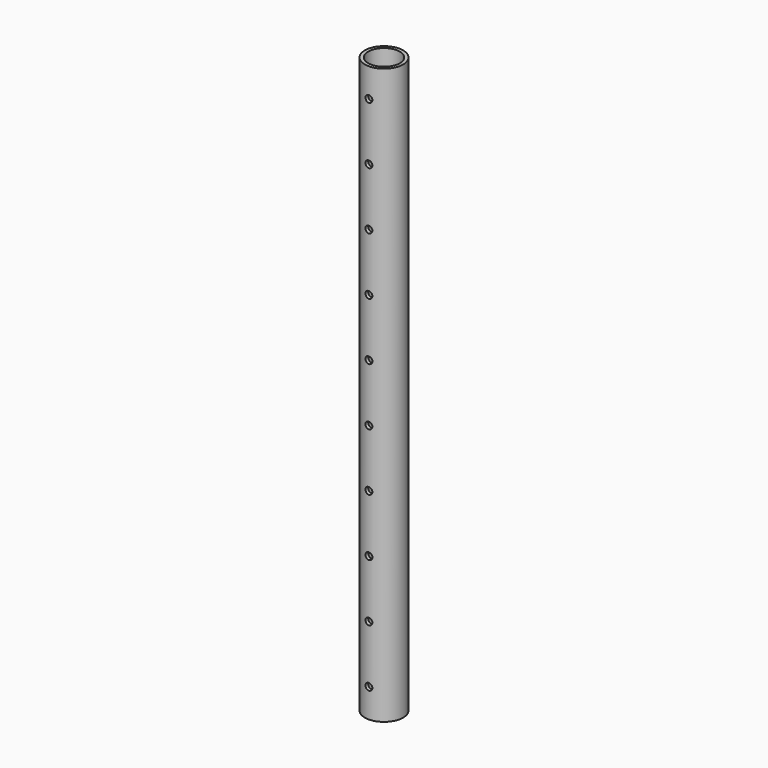
from build123d import *

# Parameters (mm, degrees)
SKETCH_R    = 16.65
SKETCH_R_2  = 13.75
PAD_DEPTH   = 250
SKETCH001_R = 3
HOLE_DEPTH  = 1021.076766


with BuildPart() as part:
    # Sketch → Pad (new body, symmetric)
    with BuildSketch(Plane.XY):
        Circle(SKETCH_R)
        Circle(SKETCH_R_2, mode=Mode.SUBTRACT)
    extrude(amount=PAD_DEPTH, both=True)

    # Sketch001 → Hole (cut, through all)
    with BuildSketch(Plane.XZ):
        with Locations((0, -225)):
            Circle(SKETCH001_R)
        with Locations((0, -175)):
            Circle(SKETCH001_R)
        with Locations((0, -125)):
            Circle(SKETCH001_R)
        with Locations((0, -75)):
            Circle(SKETCH001_R)
        with Locations((0, -25)):
            Circle(SKETCH001_R)
        with Locations((0, 25)):
            Circle(SKETCH001_R)
        with Locations((0, 75)):
            Circle(SKETCH001_R)
        with Locations((0, 125)):
            Circle(SKETCH001_R)
        with Locations((0, 175)):
            Circle(SKETCH001_R)
        with Locations((0, 225)):
            Circle(SKETCH001_R)
    hole = extrude(amount=-HOLE_DEPTH, mode=Mode.SUBTRACT)

    # Mirrored: Hole across XZ
    add(hole.mirror(Plane.XZ), mode=Mode.SUBTRACT)


solid = part.part
